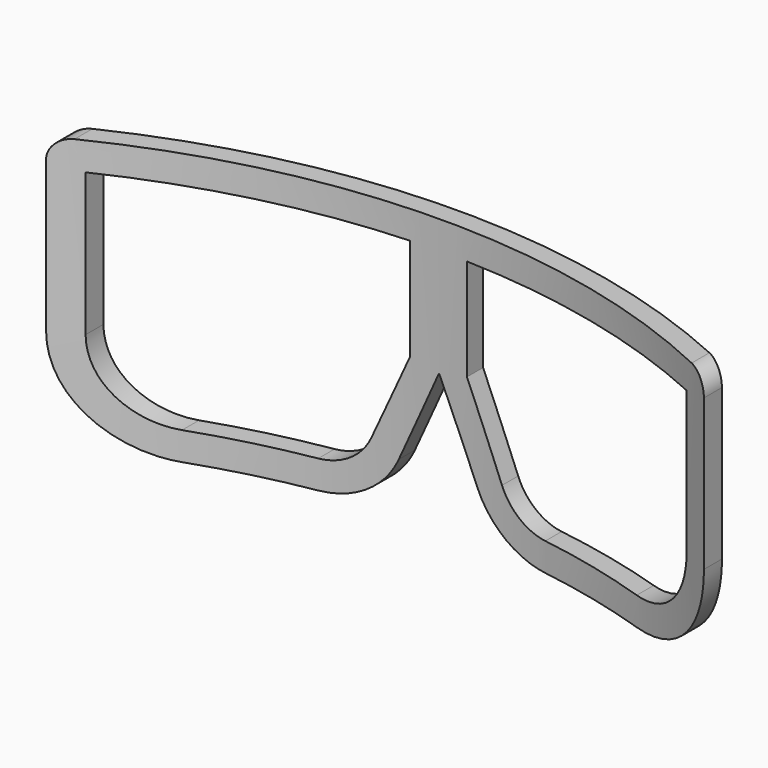
from build123d import *

# Parameters (mm, degrees)
F1_DEPTH = 50
F3_DEPTH = 100


with BuildPart() as f1:
    # F0 (on Front) → F1 (new body)
    with BuildSketch(Plane.XZ):
        with BuildLine():
            Line((-81.03925, 28.728197), (-81.03925, -8.728197))
            ThreePointArc((-81.03925, -8.728197), (-73.716919, -26.405867), (-56.03925, -33.728197))
            Line((-56.03925, -33.728197), (-27.99405, -33.728197))
            ThreePointArc((-27.99405, -33.728197), (-17.097791, -30.499349), (-9.719768, -21.85535))
            Line((-9.719768, -21.85535), (0, 0))
            Line((0, 0), (9.719768, -21.85535))
            ThreePointArc((9.719768, -21.85535), (17.097791, -30.499349), (27.99405, -33.728197))
            Line((27.99405, -33.728197), (56.03925, -33.728197))
            ThreePointArc((56.03925, -33.728197), (73.716919, -26.405867), (81.03925, -8.728197))
            Line((81.03925, -8.728197), (81.03925, 28.728197))
            ThreePointArc((81.03925, 28.728197), (79.574784, 32.263731), (76.03925, 33.728197))
            Line((76.03925, 33.728197), (0, 33.728197))
            Line((0, 33.728197), (-76.03925, 33.728197))
            ThreePointArc((-76.03925, 33.728197), (-79.574784, 32.263731), (-81.03925, 28.728197))
        make_face()
        with BuildLine():
            Line((-7, 26.728197), (-7, 1.486379))
            Line((-7, 1.486379), (-16.115767, -19.010847))
            ThreePointArc((-16.115767, -19.010847), (-20.911482, -24.629446), (-27.99405, -26.728197))
            Line((-27.99405, -26.728197), (-56.03925, -26.728197))
            ThreePointArc((-56.03925, -26.728197), (-68.767172, -21.456119), (-74.03925, -8.728197))
            Line((-74.03925, -8.728197), (-74.03925, 26.728197))
            Line((-74.03925, 26.728197), (-7, 26.728197))
        make_face(mode=Mode.SUBTRACT)
        with BuildLine():
            Line((7, 1.486379), (7, 26.728197))
            Line((7, 26.728197), (74.03925, 26.728197))
            Line((74.03925, 26.728197), (74.03925, -8.728197))
            ThreePointArc((74.03925, -8.728197), (68.767172, -21.456119), (56.03925, -26.728197))
            Line((56.03925, -26.728197), (27.99405, -26.728197))
            ThreePointArc((27.99405, -26.728197), (20.911482, -24.629446), (16.115767, -19.010847))
            Line((16.115767, -19.010847), (7, 1.486379))
        make_face(mode=Mode.SUBTRACT)
    extrude(amount=F1_DEPTH)

    # F2 (on face) → F3 (intersect)
    with BuildSketch(Plane.XY.offset(33.728197)):
        with BuildLine():
            Line((81.166449, -31.605452), (81.166449, -26.009894))
            ThreePointArc((81.166449, -26.009894), (-0.155274, -7.397108), (-81.146995, -27.397099))
            Line((-81.146995, -27.397099), (-81.146995, -33.042863))
            ThreePointArc((-81.146995, -33.042863), (-0.166739, -12.397397), (81.166449, -31.605452))
        make_face()
    extrude(amount=-F3_DEPTH, mode=Mode.INTERSECT)


solid = f1.part
